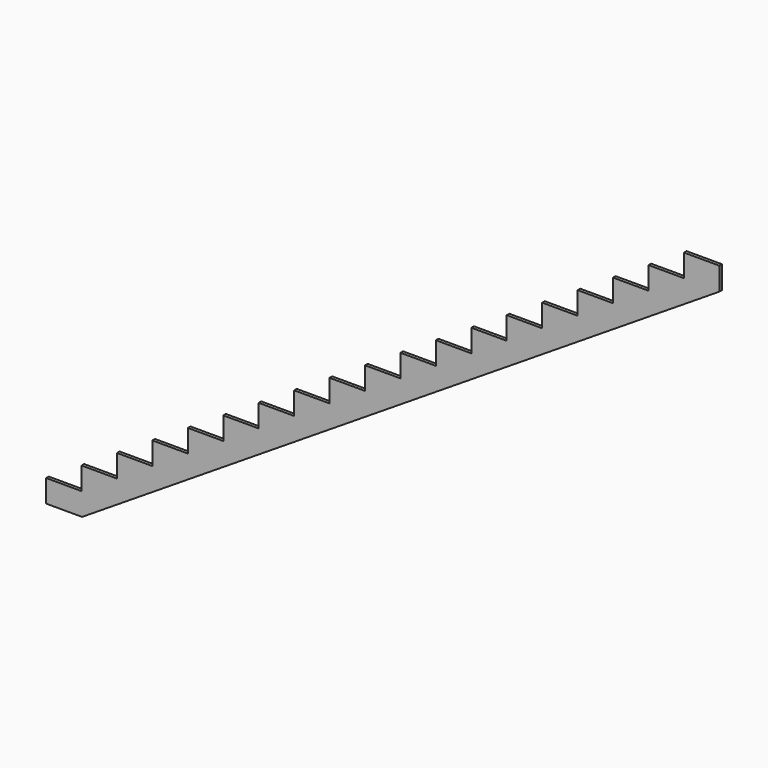
from build123d import *

# Parameters (mm, degrees)
F1_DEPTH = 25.4


with BuildPart() as f1:
    # F0 (on Front) → F1 (new body)
    with BuildSketch(Plane.XZ):
        Polygon((0, 177.8), (0, 0), (-279.4, 0), (-279.4, -177.8), (-558.8, -177.8), (-558.8, -355.6), (-838.2, -355.6), (-838.2, -533.4), (-1117.6, -533.4), (-1117.6, -711.2), (-1397, -711.2), (-1397, -889), (-1676.4, -889), (-1676.4, -1066.8), (-1955.8, -1066.8), (-1955.8, -1244.6), (-2235.2, -1244.6), (-2235.2, -1422.4), (-2514.6, -1422.4), (-2514.6, -1600.2), (-2794, -1600.2), (-2794, -1778), (-3073.4, -1778), (-3073.4, -1955.8), (-3352.8, -1955.8), (-3352.8, -2133.6), (-3632.2, -2133.6), (-3632.2, -2311.4), (-3911.6, -2311.4), (-3911.6, -2489.2), (-4191, -2489.2), (-4191, -2667), (-4470.4, -2667), (-4470.4, -2844.8), (-4749.8, -2844.8), (-4749.8, -3022.6), (-5029.2, -3022.6), (-5029.2, -3200.4), (-4745.335301, -3200.4), (279.4, -2.841172), (279.4, 177.8), align=None)
    extrude(amount=F1_DEPTH)


solid = f1.part
